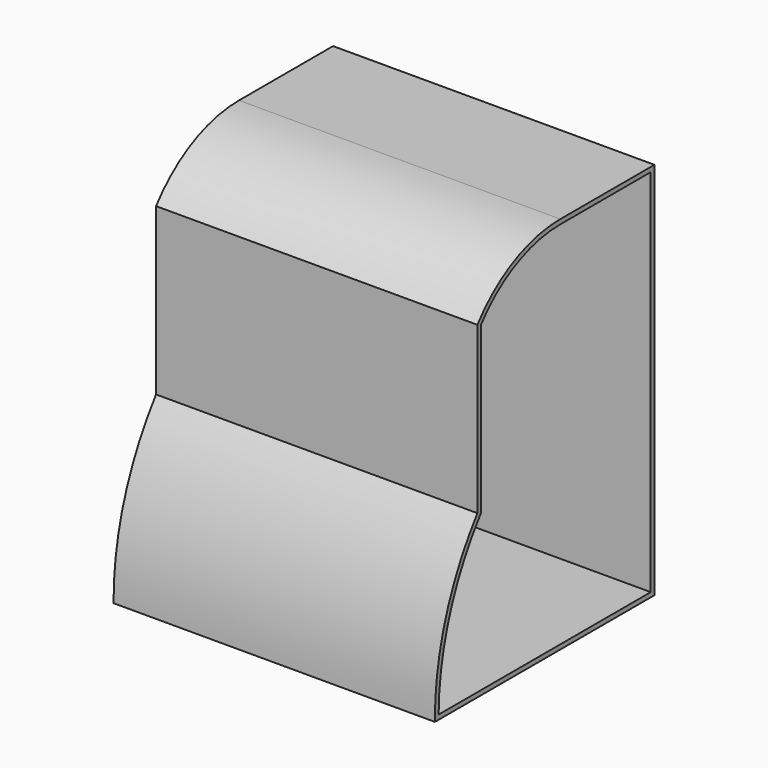
from build123d import *

# Parameters (mm, degrees)
F1_DEPTH = 177.8
F2_T     = -2.54


with BuildPart() as f1:
    # F0 (on Right) → F1 (new body)
    with BuildSketch(Plane.YZ):
        with BuildLine():
            Line((98.2369305235, 61.7217131998), (33.1608443957, 61.7217131998))
            ThreePointArc((33.1608443957, 61.7217131998), (1.2051850028, 54.2998185022), (-24.2082608398, 33.5536029787))
            Line((-24.2082608398, 33.5536029787), (-24.2082608398, -58.1929394644))
            ThreePointArc((-24.2082608398, -58.1929394644), (-46.2567481924, -100.6596094953), (-53.5797183083, -147.9452094887))
            Line((-53.5797183083, -147.9452094887), (98.2369305235, -147.9452094887))
            Line((98.2369305235, -147.9452094887), (98.2369305235, 61.7217131998))
        make_face()
    extrude(amount=F1_DEPTH)

    # F2
    f2_openings = [f1.faces().sort_by_distance(p)[0] for p in [
        (177.8, 32.973505, -49.592327),
    ]]
    offset(amount=F2_T, openings=f2_openings, kind=Kind.INTERSECTION)


solid = f1.part
